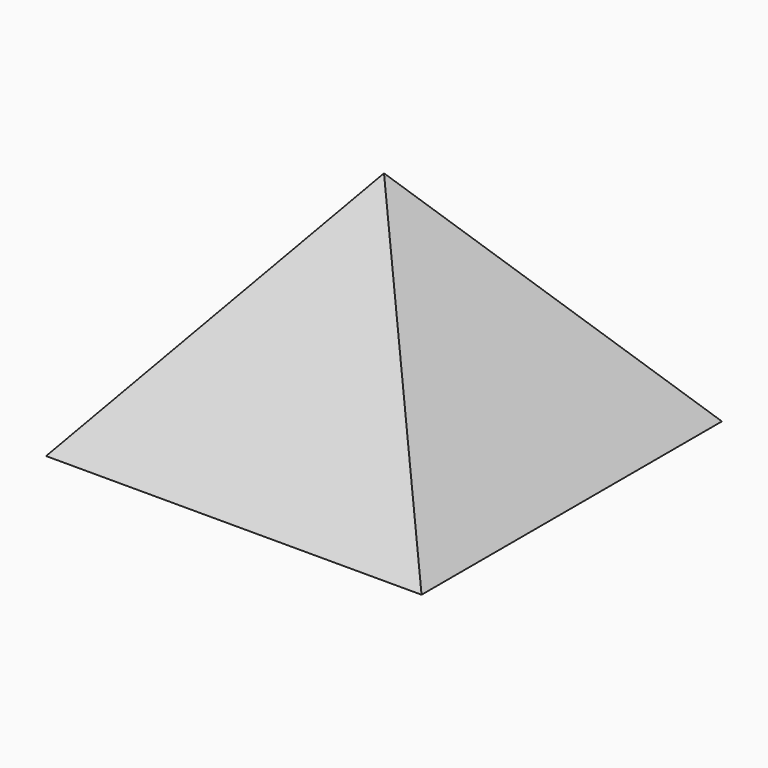
from build123d import *

# Parameters (mm, degrees)
F0_W = 127
F0_H = 127


with BuildPart() as f2:
    # F0 (on Top) → F2 section 0
    with BuildSketch(Plane.XY, mode=Mode.PRIVATE) as f2_s0:
        Rectangle(F0_W, F0_H)
    loft([Vertex(0, 0, 79.053119), f2_s0.sketch])


solid = f2.part
